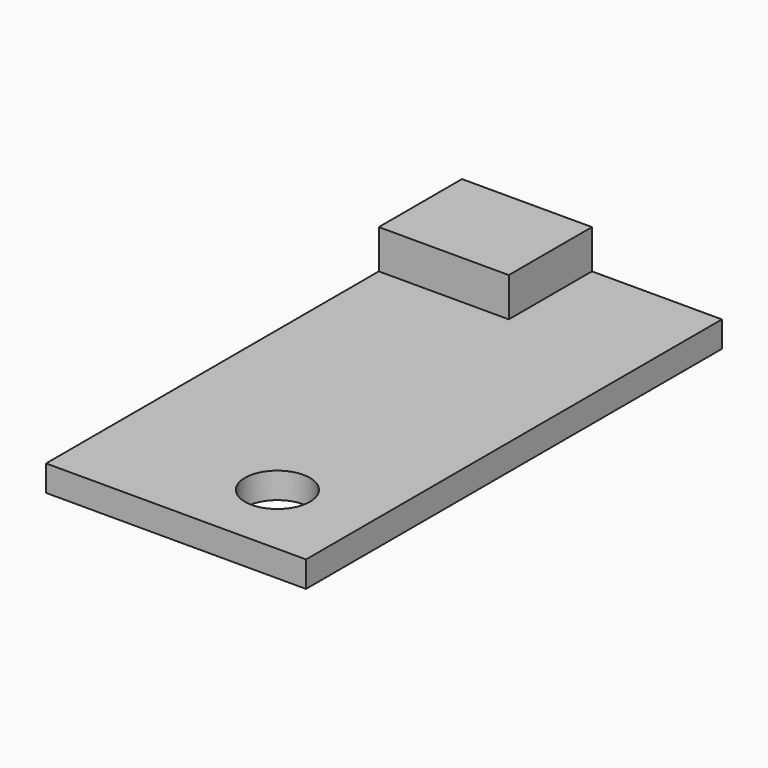
from build123d import *

# Parameters (mm, degrees)
F0_W     = 100
F0_H     = 200
F1_DEPTH = 10
F2_W     = 50
F2_H     = 40
F3_DEPTH = 25
F4_R     = 12.5
F5_DEPTH = 10.001


with BuildPart() as f1:
    # F0 (on Top) → F1 (new body)
    with BuildSketch(Plane.XY):
        with Locations((-17.348269, 5.148082)):
            Rectangle(F0_W, F0_H)
    extrude(amount=F1_DEPTH)

    # F2 (on Top) → F3 (join)
    with BuildSketch(Plane.XY):
        with Locations((-42.348269, 85.148082)):
            Rectangle(F2_W, F2_H)
    extrude(amount=F3_DEPTH)

    # F4 (on face) → F5 (cut, through all)
    with BuildSketch(Plane.XY.offset(10)):
        with Locations((-2.348269, -64.851918)):
            Circle(F4_R)
    extrude(amount=-F5_DEPTH, mode=Mode.SUBTRACT)


solid = f1.part
